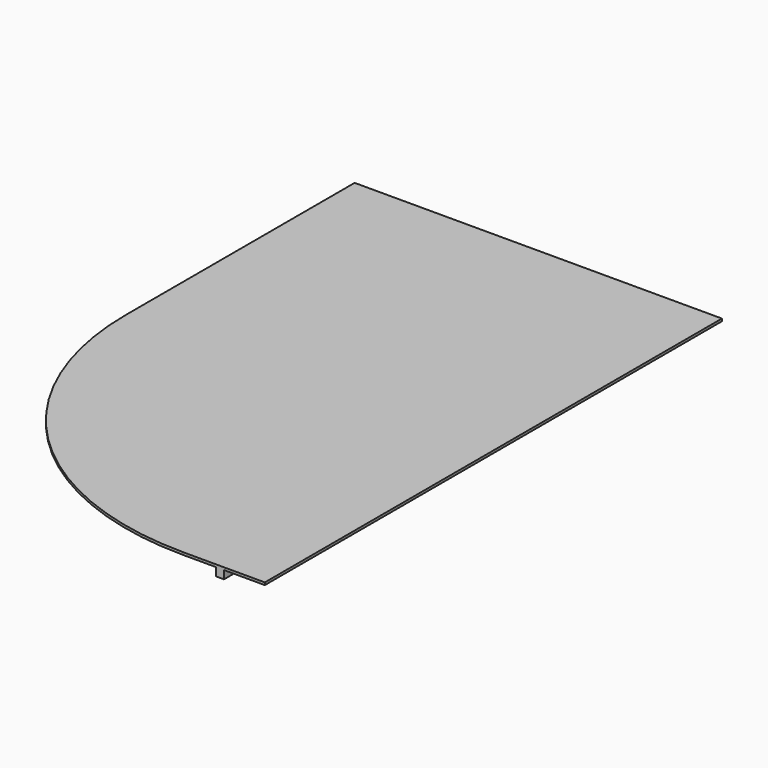
from build123d import *

# Parameters (mm, degrees)
F1_DEPTH = 29.999999
F2_W     = 100
F2_H     = 100
F3_DEPTH = 7000
F4_W     = 100
F4_H     = 100
F5_DEPTH = 3500


with BuildPart() as f1:
    # F0 (on Top) → F1 (new body)
    with BuildSketch(Plane.XY):
        with BuildLine():
            ThreePointArc((-1977.415055, -657.267908), (-952.288789, -3132.141642), (1522.584945, -4157.267908))
            Line((1522.584945, -4157.267908), (2522.584945, -4157.267908))
            Line((2522.584945, -4157.267908), (2522.584945, 2842.732092))
            Line((2522.584945, 2842.732092), (-1977.415055, 2842.732092))
            Line((-1977.415055, 2842.732092), (-1977.415055, -657.267908))
        make_face()
    extrude(amount=-F1_DEPTH)

    # F2 (on face) → F3 (join, through all)
    with BuildSketch(Plane(origin=(0, 2842.732092, 0), x_dir=(-1, 0, 0), z_dir=(0, 1, 0))):
        with Locations((-1972.584945, -79.999999)):
            Rectangle(F2_W, F2_H)
    extrude(amount=-F3_DEPTH)

    # F4 (on face) → F5 (join)
    with BuildSketch(Plane(origin=(0, 2842.732092, 0), x_dir=(-1, 0, 0), z_dir=(0, 1, 0))):
        with Locations((1427.415055, -79.999999)):
            Rectangle(F4_W, F4_H)
    extrude(amount=-F5_DEPTH)


solid = f1.part
